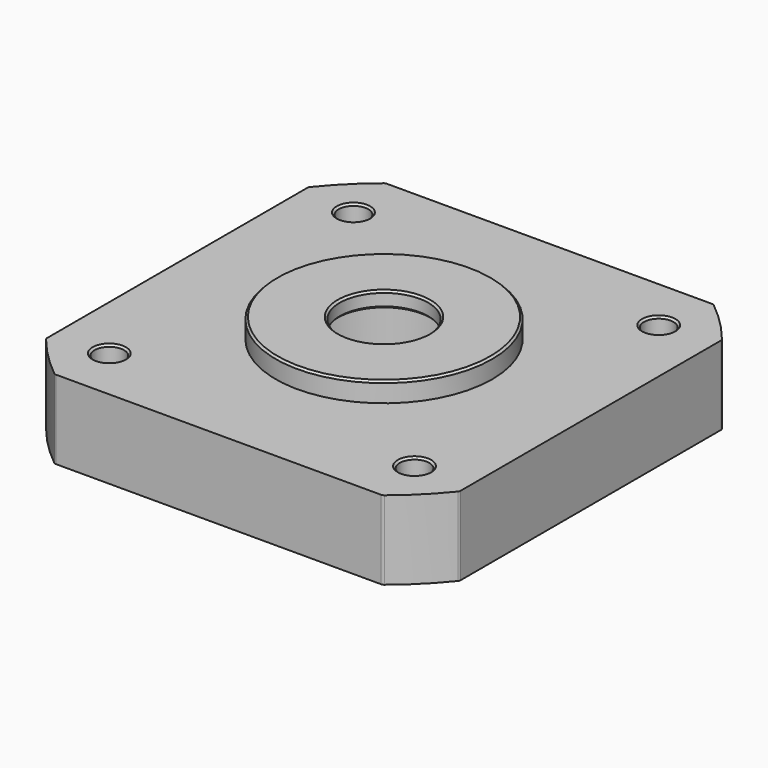
from build123d import *

# Parameters (mm, degrees)
SKETCH015_R     = 4.5
SKETCH015_R_2   = 1.5
PAD008_DEPTH    = 8
SKETCH016_R     = 11
SKETCH016_R_2   = 4.5
PAD009_DEPTH    = 2
SKETCH017_R     = 8
POCKET004_DEPTH = 8.4
CHAMFER003_SIZE = 0.2
FILLET002_R     = 0.4


with BuildPart() as part:
    # Sketch015 → Pad008 (new body)
    with BuildSketch(Plane.XY):
        with BuildLine():
            ThreePointArc((-16.650526, 21), (-18.950462, 18.950462), (-21, 16.650526))
            Line((-21, 16.650526), (-21, -16.650526))
            ThreePointArc((-21, -16.650526), (-18.950462, -18.950462), (-16.650526, -21))
            Line((-16.650526, -21), (16.650526, -21))
            ThreePointArc((16.650526, -21), (18.950462, -18.950462), (21, -16.650526))
            Line((21, 16.650526), (21, -16.650526))
            ThreePointArc((21, 16.650526), (18.950462, 18.950462), (16.650526, 21))
            Line((-16.650526, 21), (16.650526, 21))
        make_face()
        Circle(SKETCH015_R, mode=Mode.SUBTRACT)
        with Locations((-15.5, 15.5)):
            Circle(SKETCH015_R_2, mode=Mode.SUBTRACT)
        with Locations((15.5, 15.5)):
            Circle(SKETCH015_R_2, mode=Mode.SUBTRACT)
        with Locations((15.5, -15.5)):
            Circle(SKETCH015_R_2, mode=Mode.SUBTRACT)
        with Locations((-15.5, -15.5)):
            Circle(SKETCH015_R_2, mode=Mode.SUBTRACT)
    extrude(amount=PAD008_DEPTH)

    # Sketch016 (on Face15 of Pad008) → Pad009 (join)
    with BuildSketch(Plane.XY.offset(8)):
        Circle(SKETCH016_R)
        Circle(SKETCH016_R_2, mode=Mode.SUBTRACT)
    extrude(amount=PAD009_DEPTH)

    # Sketch017 → Pocket004 (cut)
    with BuildSketch(Plane.XY):
        Circle(SKETCH017_R)
    extrude(amount=POCKET004_DEPTH, mode=Mode.SUBTRACT)

    # Chamfer003
    chamfer003_edges = [part.edges().sort_by_distance(p)[0] for p in [
        (-11, 0, 10),
        (14, 15.5, 8),
        (-17, 15.5, 8),
        (-17, -15.5, 8),
        (14, -15.5, 8),
        (-4.5, 0, 10),
        (-4.5, 0, 8.4),
    ]]
    chamfer(chamfer003_edges, length=CHAMFER003_SIZE)

    # Fillet002
    fillet002_edges = [part.edges().sort_by_distance(p)[0] for p in [
        (16.650526, 21, 4),
        (21, 16.650526, 4),
        (21, -16.650526, 4),
        (16.650526, -21, 4),
        (-21, -16.650526, 4),
        (-16.650526, -21, 4),
        (-21, 16.650526, 4),
        (-16.650526, 21, 4),
    ]]
    fillet(fillet002_edges, radius=FILLET002_R)


with BuildPart() as part_1:
    # Body005 placement: moved
    add(part.part.moved(Location((0, 0, 30))))


solid = part_1.part
